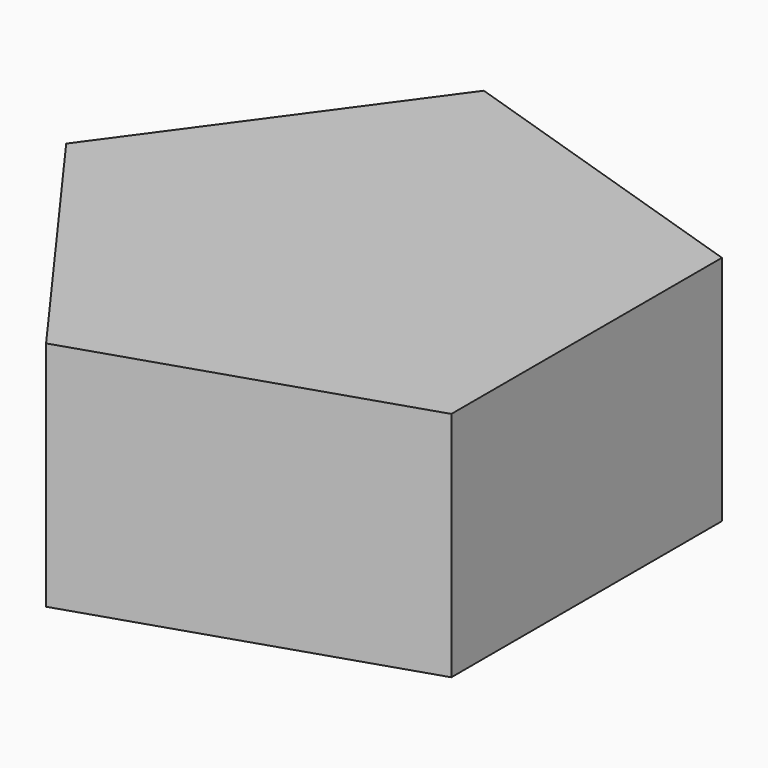
from build123d import *

# Parameters (mm, degrees)
F2_DEPTH = 7


with BuildPart() as f2:
    # F1 (on face) → F2 (new body)
    with BuildSketch(Plane.XY):
        Polygon((-2.684098, 8.260804), (-8.685923, 0), (-2.684098, -8.260804), (7.027059, -5.105458), (7.027059, 5.105458), align=None)
    extrude(amount=F2_DEPTH)


solid = f2.part
